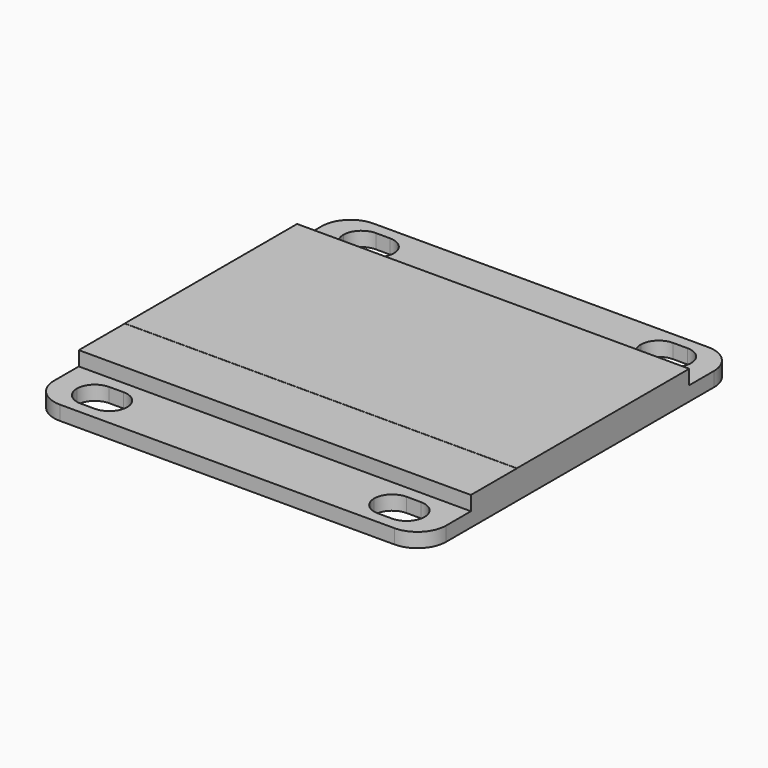
from build123d import *

# Parameters (mm, degrees)
F1_DEPTH = 1
F2_W     = 27.3
F2_H     = 19
F3_DEPTH = 1
F4_W     = 27.3
F4_H     = 15
F5_DEPTH = 0.01


with BuildPart() as f1:
    # F0 (on Top) → F1 (new body)
    with BuildSketch(Plane.XY):
        with BuildLine():
            Line((-11.65, -13.65), (11.65, -13.65))
            ThreePointArc((11.65, -13.65), (13.064214, -13.064214), (13.65, -11.65))
            Line((13.65, -11.65), (13.65, 11.65))
            ThreePointArc((13.65, 11.65), (13.064214, 13.064214), (11.65, 13.65))
            Line((11.65, 13.65), (-11.65, 13.65))
            ThreePointArc((-11.65, 13.65), (-13.064214, 13.064214), (-13.65, 11.65))
            Line((-13.65, 11.65), (-13.65, -11.65))
            ThreePointArc((-13.65, -11.65), (-13.064214, -13.064214), (-11.65, -13.65))
        make_face()
        with BuildLine():
            Line((-9.85, -12.85), (-10.85, -12.85))
            ThreePointArc((-10.85, -12.85), (-11.733883, -12.483883), (-12.1, -11.6))
            ThreePointArc((-12.1, -11.6), (-11.733883, -10.716117), (-10.85, -10.35))
            Line((-10.85, -10.35), (-9.85, -10.35))
            ThreePointArc((-9.85, -10.35), (-8.966117, -10.716117), (-8.6, -11.6))
            ThreePointArc((-8.6, -11.6), (-8.966117, -12.483883), (-9.85, -12.85))
        make_face(mode=Mode.SUBTRACT)
        with BuildLine():
            ThreePointArc((8.6, -11.6), (8.966117, -10.716117), (9.85, -10.35))
            Line((9.85, -10.35), (10.85, -10.35))
            ThreePointArc((10.85, -10.35), (11.733883, -10.716117), (12.1, -11.6))
            ThreePointArc((12.1, -11.6), (11.733883, -12.483883), (10.85, -12.85))
            Line((10.85, -12.85), (9.85, -12.85))
            ThreePointArc((9.85, -12.85), (8.966117, -12.483883), (8.6, -11.6))
        make_face(mode=Mode.SUBTRACT)
        with BuildLine():
            ThreePointArc((-8.6, 11.6), (-8.966117, 10.716117), (-9.85, 10.35))
            Line((-9.85, 10.35), (-10.85, 10.35))
            ThreePointArc((-10.85, 10.35), (-11.733883, 10.716117), (-12.1, 11.6))
            ThreePointArc((-12.1, 11.6), (-11.733883, 12.483883), (-10.85, 12.85))
            Line((-10.85, 12.85), (-9.85, 12.85))
            ThreePointArc((-9.85, 12.85), (-8.966117, 12.483883), (-8.6, 11.6))
        make_face(mode=Mode.SUBTRACT)
        with BuildLine():
            ThreePointArc((8.6, 11.6), (8.966117, 12.483883), (9.85, 12.85))
            Line((9.85, 12.85), (10.85, 12.85))
            ThreePointArc((10.85, 12.85), (11.733883, 12.483883), (12.1, 11.6))
            ThreePointArc((12.1, 11.6), (11.733883, 10.716117), (10.85, 10.35))
            Line((10.85, 10.35), (9.85, 10.35))
            ThreePointArc((9.85, 10.35), (8.966117, 10.716117), (8.6, 11.6))
        make_face(mode=Mode.SUBTRACT)
    extrude(amount=F1_DEPTH)

    # F2 (on face) → F3 (join)
    with BuildSketch(Plane.XY.offset(1)):
        Rectangle(F2_W, F2_H)
    extrude(amount=F3_DEPTH)

    # F4 (on face) → F5 (join)
    with BuildSketch(Plane.XY.offset(2)):
        with Locations((0, 2)):
            Rectangle(F4_W, F4_H)
    extrude(amount=F5_DEPTH)


solid = f1.part
